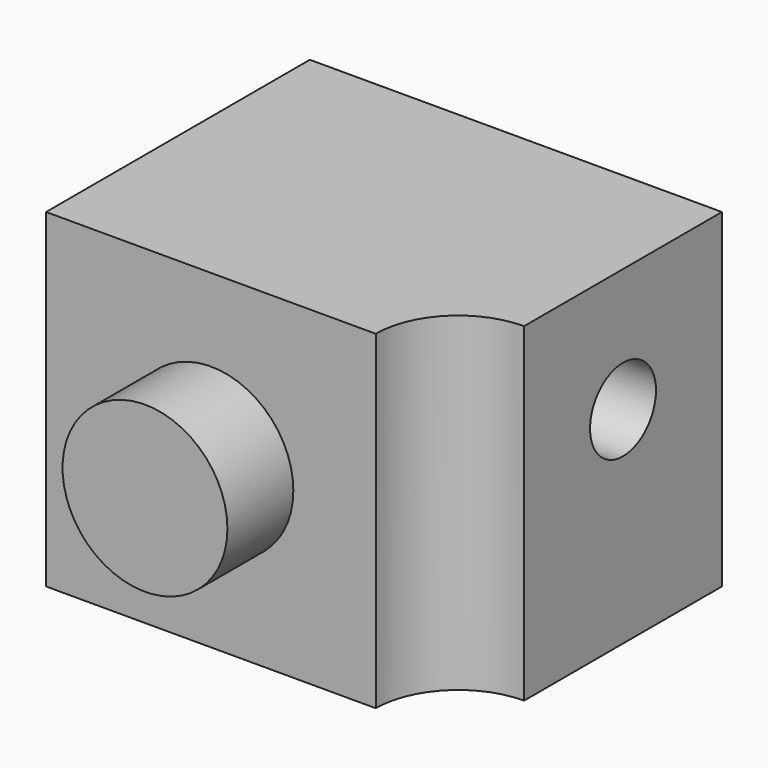
from build123d import *

# Parameters (mm, degrees)
F1_DEPTH = 4
F2_R     = 1
F3_DEPTH = 1
F4_R     = 0.5
F5_DEPTH = 25


with BuildPart() as f1:
    # F0 (on Top) → F1 (new body)
    with BuildSketch(Plane.XY):
        with BuildLine():
            Line((0, 4), (0, 0))
            Line((0, 0), (4, 0))
            ThreePointArc((4, 0), (4.292893, 0.707107), (5, 1))
            Line((5, 1), (5, 4))
            Line((5, 4), (0, 4))
        make_face()
    extrude(amount=-F1_DEPTH)

    # F2 (on Front) → F3 (join)
    with BuildSketch(Plane.XZ):
        with Locations((2, -2)):
            Circle(F2_R)
    extrude(amount=F3_DEPTH)

    # F4 (on face) → F5 (cut)
    with BuildSketch(Plane.YZ.offset(5)):
        with Locations((2.5, -1.5)):
            Circle(F4_R)
    extrude(amount=-F5_DEPTH, mode=Mode.SUBTRACT)


solid = f1.part
